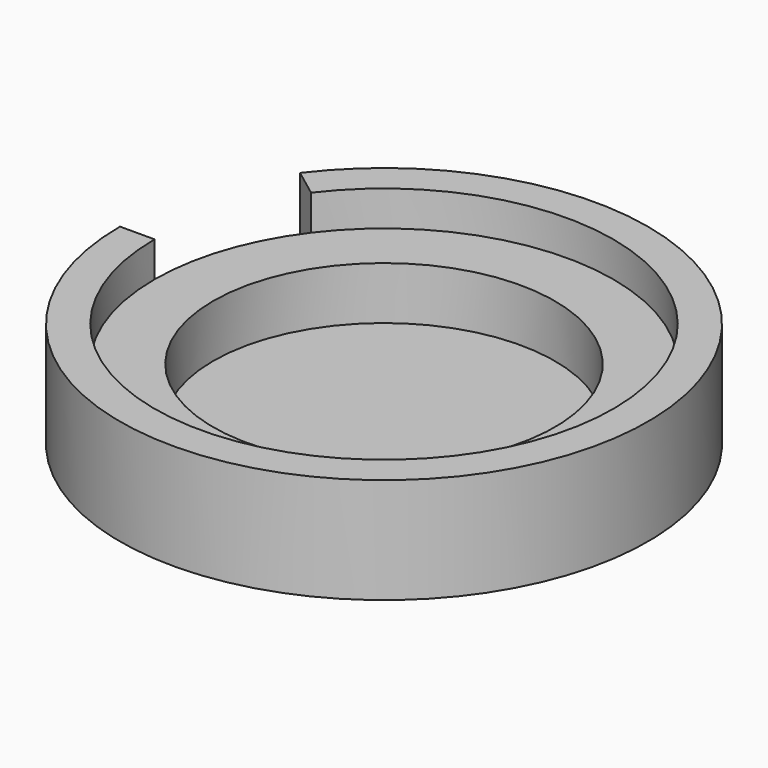
from build123d import *

# Parameters (mm, degrees)
F1_DEPTH = 76.2
F2_DEPTH = 50.8
F3_DEPTH = 12.7
F4_DEPTH = 50.8
F5_DEPTH = 12.7


with BuildPart() as f1:
    # F0 (on Top) → F1 (new body)
    with BuildSketch(Plane.XY):
        with BuildLine():
            ThreePointArc((-190.5, 0), (0, -190.5), (190.5, 0))
            ThreePointArc((190.5, 0), (60.4014109978, 180.6707490146), (-152.1973181048, 114.5697445302))
            Line((-152.1973181048, 114.5697445302), (-132.2621264517, 99.5631081236))
            ThreePointArc((-132.2621264517, 99.5631081236), (52.4898806282, 157.0060349935), (165.5478256962, 0))
            ThreePointArc((165.5478256962, 0), (0, -165.5478256962), (-165.5478256962, 0))
            Line((-165.5478256962, 0), (-190.5, 0))
        make_face()
    extrude(amount=F1_DEPTH)

    # F0 (on Top) → F2 (join)
    with BuildSketch(Plane.XY):
        with BuildLine():
            ThreePointArc((165.5478256962, 0), (52.4898806282, 157.0060349935), (-132.2621264517, 99.5631081236))
            Line((-132.2621264517, 99.5631081236), (-98.495770837, 74.1447710289))
            ThreePointArc((-98.495770837, 74.1447710289), (39.0892796926, 116.9225904469), (123.2836726566, 0))
            ThreePointArc((123.2836726566, 0), (0, -123.2836726566), (-123.2836726566, 0))
            Line((-123.2836726566, 0), (-165.5478256962, 0))
            ThreePointArc((-165.5478256962, 0), (0, -165.5478256962), (165.5478256962, 0))
        make_face()
    extrude(amount=F2_DEPTH)

    # F0 (on Top) → F3 (join)
    with BuildSketch(Plane.XY):
        with BuildLine():
            ThreePointArc((123.2836726566, 0), (39.0892796926, 116.9225904469), (-98.495770837, 74.1447710289))
            Line((-98.495770837, 74.1447710289), (0, 0))
            Line((0, 0), (-123.2836726566, 0))
            ThreePointArc((-123.2836726566, 0), (0, -123.2836726566), (123.2836726566, 0))
        make_face()
    extrude(amount=F3_DEPTH)

    # F0 (on Top) → F4 (join)
    with BuildSketch(Plane.XY):
        with BuildLine():
            Line((-98.495770837, 74.1447710289), (-132.2621264517, 99.5631081236))
            ThreePointArc((-132.2621264517, 99.5631081236), (-157.0060349935, 52.4898806282), (-165.5478256962, 0))
            Line((-165.5478256962, 0), (-123.2836726566, 0))
            ThreePointArc((-123.2836726566, 0), (-116.9225904469, 39.0892796926), (-98.495770837, 74.1447710289))
        make_face()
    extrude(amount=F4_DEPTH)

    # F0 (on Top) → F5 (join)
    with BuildSketch(Plane.XY):
        with BuildLine():
            Line((0, 0), (-98.495770837, 74.1447710289))
            ThreePointArc((-98.495770837, 74.1447710289), (-116.9225904469, 39.0892796926), (-123.2836726566, 0))
            Line((-123.2836726566, 0), (0, 0))
        make_face()
    extrude(amount=F5_DEPTH)


solid = f1.part
